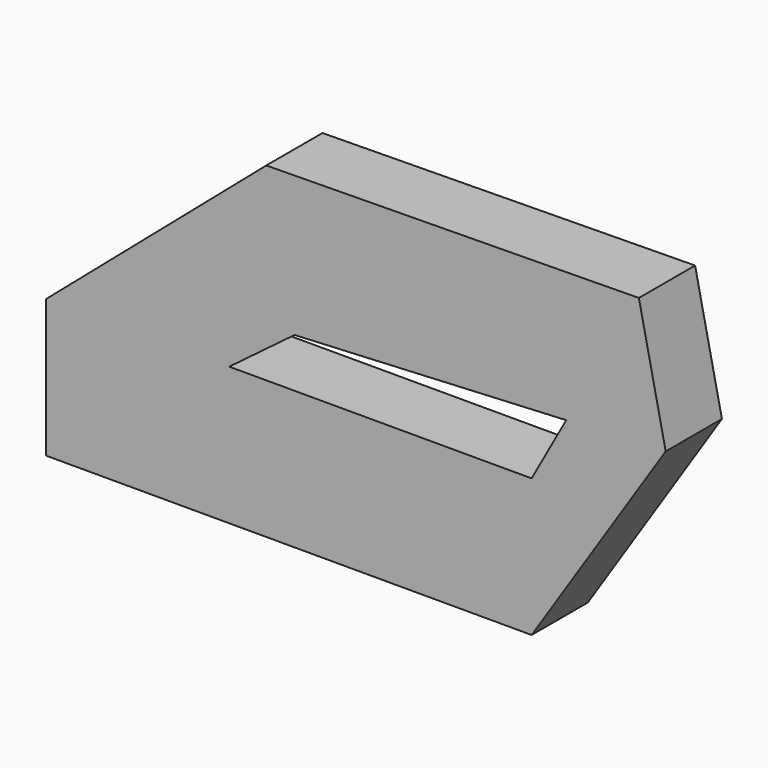
from build123d import *

# Parameters (mm, degrees)
F1_DEPTH = 25.4


with BuildPart() as f1:
    # F0 (on Front) → F1 (new body)
    with BuildSketch(Plane.XZ):
        Polygon((26.530553, 74.750386), (-53.061098, 6.366197), (13.146355, 6.366197), (36.734607, 24.124743), align=None)
        Polygon((13.146355, 6.366197), (-53.061098, 6.366197), (-53.061098, -43.478452), align=None)
        Polygon((122.448683, 6.366197), (13.146355, 6.366197), (-53.061098, -43.478452), (122.448683, -43.478452), align=None)
        Polygon((161.224097, 76.388255), (26.530553, 74.750386), (36.734607, 24.124743), (134.954938, 28.95045), align=None)
        Polygon((134.954938, 28.95045), (122.448683, 6.366197), (122.448683, -43.478452), (170.917973, 30.717365), align=None)
        Polygon((170.917973, 30.717365), (161.224097, 76.388255), (134.954938, 28.95045), align=None)
    extrude(amount=F1_DEPTH)


solid = f1.part
